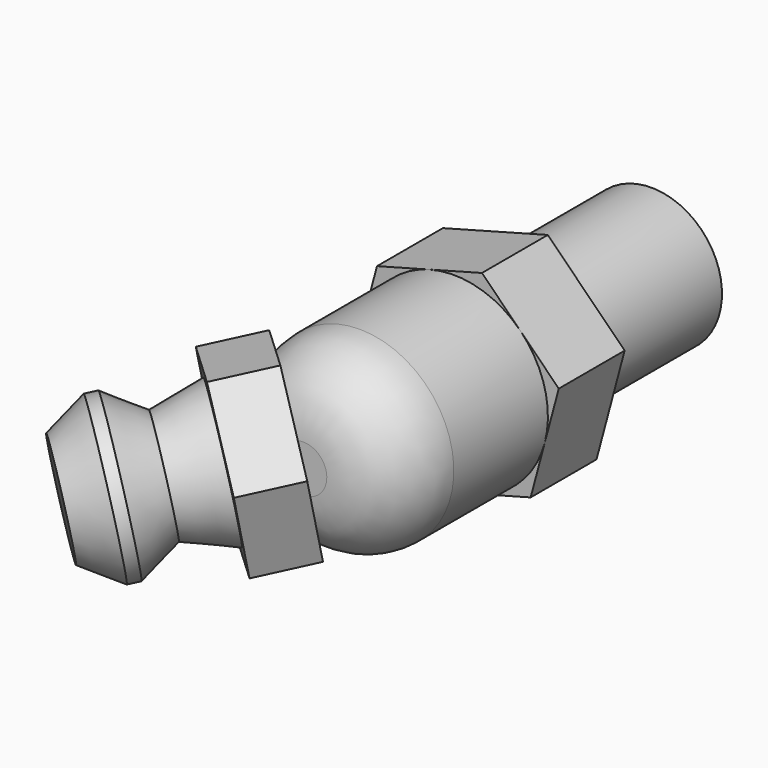
from build123d import *

# Parameters (mm, degrees)
SKETCH005_R         = 3
PAD002_DEPTH        = 7
PAD003_DEPTH        = 3.5
SKETCH007_R         = 4
PAD004_DEPTH        = 8
FILLET_R            = 3
PAD005_DEPTH        = 2.5
BODY001_ROLL_ANGLE  = -180
BODY001_PITCH_ANGLE = 75


with BuildPart() as part:
    # Sketch005 → Pad002 (new body)
    with BuildSketch(Plane.XZ):
        Circle(SKETCH005_R)
    extrude(amount=PAD002_DEPTH)

    # Sketch006 (on Face2 of Pad002) → Pad003 (join)
    with BuildSketch(Plane(origin=(0, 0, 0), x_dir=(1, 0, 0), z_dir=(0, 1, 0))):
        Polygon((4, -2.3094010768), (4, 2.3094010768), (0, 4.6188021535), (-4, 2.3094010768), (-4, -2.3094010768), (0, -4.6188021535), align=None)
    extrude(amount=PAD003_DEPTH)

    # Sketch007 (on Face5 of Pad003) → Pad004 (join)
    with BuildSketch(Plane(origin=(0, 3.5, 0), x_dir=(1, 0, 0), z_dir=(0, 1, 0))):
        Circle(SKETCH007_R)
    extrude(amount=PAD004_DEPTH)

    # Fillet
    fillet_edges = [part.edges().sort_by_distance(p)[0] for p in [
        (-4, 11.5, 0),
    ]]
    fillet(fillet_edges, radius=FILLET_R)

    # Sketch008 (on Plane of DatumPlane) → Pad005 (join)
    with BuildSketch(Plane(origin=(0, 11.5, 0), x_dir=(1, 0, 0), z_dir=(0, 0.7071067812, 0.7071067812))):
        Polygon((3.5, -4.6207259421), (3.5, -0.5792740579), (0, 1.4414518843), (-3.5, -0.5792740579), (-3.5, -4.6207259421), (0, -6.6414518843), align=None)
    extrude(amount=PAD005_DEPTH)

    # Sketch009 (on Plane of DatumPlane001) → Revolution (revolve)
    with BuildSketch(Plane(origin=(0, 7.517766953, 7.517766953), x_dir=(0, -0.7071067812, -0.7071067812), z_dir=(1, 0, 0))):
        Polygon((0, 8.4317279836), (-2, 7.7817279836), (-3.5, 8.7817279836), (-4, 8.7817279836), (-5.5, 7.7817279836), (-5.5, 5.5317279836), (0, 5.5317279836), align=None)
    revolve(axis=Axis((0, 11.4292893219, 3.6062445841), (0, -0.7071067812, -0.7071067812)))


with BuildPart() as part_1:
    # Body001 roll: moved
    add(part.part.rotate(Axis((0, 0, 0), (1, 0, 0)), BODY001_ROLL_ANGLE))


with BuildPart() as part_2:
    # Body001 pitch: moved
    add(part_1.part.rotate(Axis((0, 0, 0), (0, 1, 0)), BODY001_PITCH_ANGLE))


with BuildPart() as part_3:
    # Body001 placement: moved
    add(part_2.part.moved(Location((0.2910046565, -51, 25.9598789729))))


solid = part_3.part
